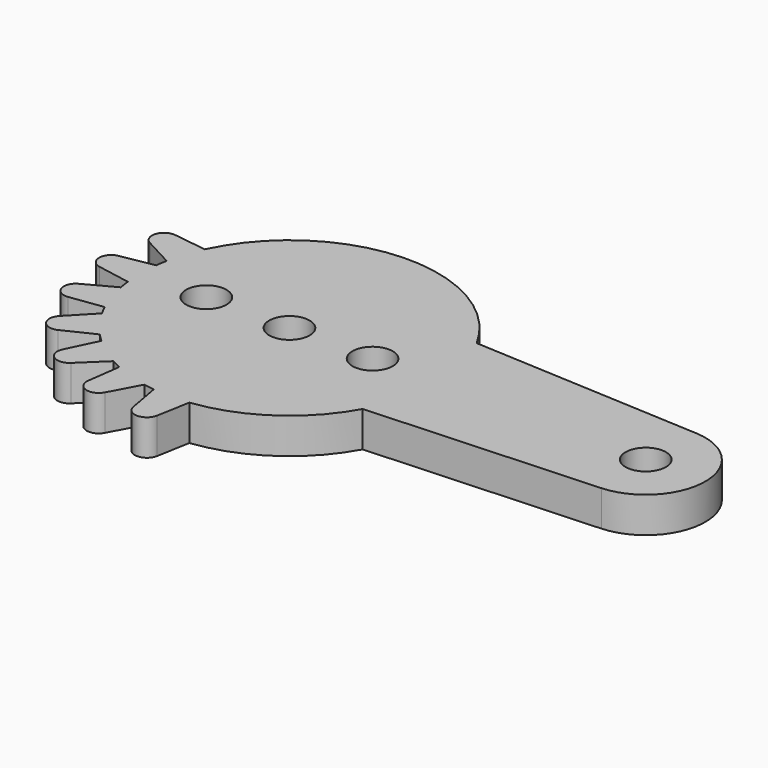
from build123d import *

# Parameters (mm, degrees)
SKETCH_R  = 1.7
PAD_DEPTH = 3


with BuildPart() as part:
    # Sketch → Pad (new body)
    with BuildSketch(Plane.XY):
        with BuildLine():
            ThreePointArc((-11.338775, -5.261385), (-11.137582, -5.674881), (-10.921315, -6.080698))
            Line((-10.921315, -6.080698), (-12.869031, -8.11383))
            ThreePointArc((-12.869031, -8.11383), (-12.957339, -9.414058), (-11.69346, -9.731864))
            Line((-11.69346, -9.731864), (-9.157959, -8.507749))
            ThreePointArc((-9.157959, -8.507749), (-8.838835, -8.838835), (-8.507749, -9.157959))
            Line((-8.507749, -9.157959), (-9.731864, -11.69346))
            ThreePointArc((-9.731864, -11.69346), (-9.414058, -12.957339), (-8.11383, -12.869031))
            Line((-8.11383, -12.869031), (-6.080698, -10.921315))
            ThreePointArc((-6.080698, -10.921315), (-5.674881, -11.137582), (-5.261385, -11.338775))
            Line((-5.261385, -11.338775), (-5.642075, -14.128453))
            ThreePointArc((-5.642075, -14.128453), (-4.949263, -15.232265), (-3.739962, -14.746487))
            Line((-3.739962, -14.746487), (-2.408215, -12.265826))
            ThreePointArc((-2.408215, -12.265826), (-1.955431, -12.346104), (-1.5, -12.409674))
            Line((-1.5, -12.409674), (-1, -15.180455))
            ThreePointArc((-1, -15.180455), (0, -16.016151), (1, -15.180455))
            Line((1, -15.180455), (1.5, -12.409674))
            ThreePointArc((1.5, -12.409674), (7.008593, -10.350344), (10.965856, -6))
            Line((30.259157, -5), (10.965856, -6))
            ThreePointArc((30.259157, -5), (35.006712, 0), (30.259157, 5))
            Line((10.965856, 6), (30.259157, 5))
            ThreePointArc((10.965856, 6), (-0.413709, 12.493152), (-11.338775, 5.261385))
            Line((-11.338775, 5.261385), (-14.128453, 5.642075))
            ThreePointArc((-14.128453, 5.642075), (-15.232265, 4.949263), (-14.746487, 3.739962))
            Line((-14.746487, 3.739962), (-12.265826, 2.408215))
            ThreePointArc((-12.265826, 2.408215), (-12.346104, 1.955431), (-12.409674, 1.5))
            Line((-12.409674, 1.5), (-15.180455, 1))
            ThreePointArc((-15.180455, 1), (-16.016151, 0), (-15.180455, -1))
            Line((-15.180455, -1), (-12.409674, -1.5))
            ThreePointArc((-12.409674, -1.5), (-12.346104, -1.955431), (-12.265826, -2.408215))
            Line((-12.265826, -2.408215), (-14.746487, -3.739962))
            ThreePointArc((-14.746487, -3.739962), (-15.232265, -4.949263), (-14.128453, -5.642075))
            Line((-14.128453, -5.642075), (-11.338775, -5.261385))
        make_face()
        Circle(SKETCH_R, mode=Mode.SUBTRACT)
        with Locations((7, 0)):
            Circle(SKETCH_R, mode=Mode.SUBTRACT)
        with Locations((-7, 0)):
            Circle(SKETCH_R, mode=Mode.SUBTRACT)
        with Locations((30, 0)):
            Circle(SKETCH_R, mode=Mode.SUBTRACT)
    extrude(amount=PAD_DEPTH)


solid = part.part
